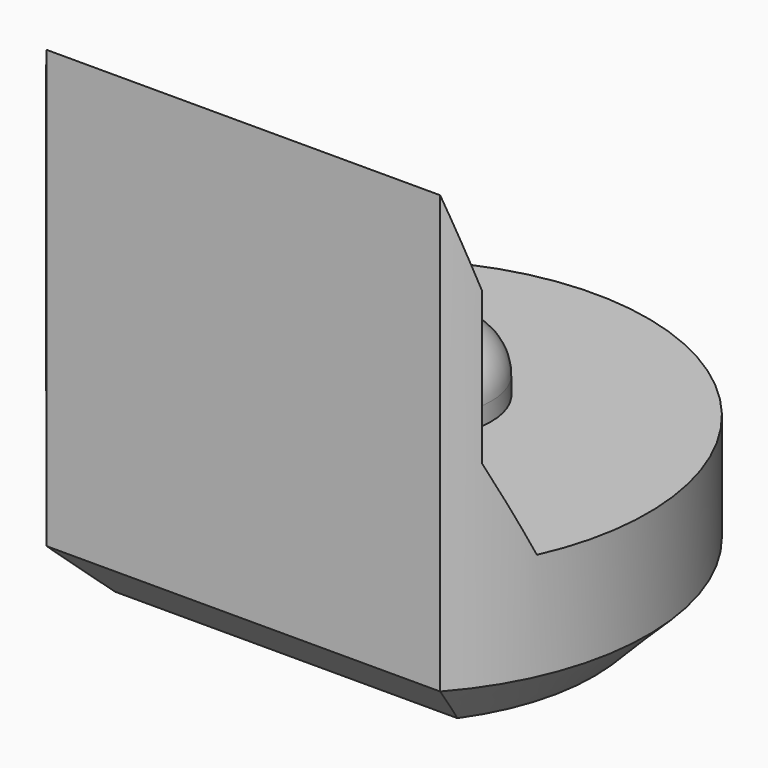
from build123d import *

# Parameters (mm, degrees)
PAD003_DEPTH         = 5.5
POCKET004_DEPTH      = 2.951
POCKET004_DEPTH_BACK = 2.951
SKETCH013_R          = 0.8
PAD006_DEPTH         = 0.7
FILLET_R             = 0.5
CHAMFER004_SIZE      = 0.6


with BuildPart() as part:
    # Sketch004 → Pad003 (new body)
    with BuildSketch(Plane.XY):
        with BuildLine():
            ThreePointArc((2.2, -1.9653244007), (0, 2.95), (-2.2, -1.9653244007))
            Line((-2.2, -1.9653244007), (2.2, -1.9653244007))
        make_face()
    extrude(amount=PAD003_DEPTH)

    # Sketch014 → Pocket004 (cut, two sides)
    with BuildSketch(Plane.YZ) as pocket004_sk:
        Polygon((-1.97, 5.5), (-1.67, 4.5), (-1.67, 2.8), (-1.22, 1.8), (4, 1.8), (4, 5.5), align=None)
    extrude(amount=-POCKET004_DEPTH, mode=Mode.SUBTRACT)
    extrude(pocket004_sk.sketch, amount=POCKET004_DEPTH_BACK, mode=Mode.SUBTRACT)

    # Sketch013 (on Face7 of Pocket004) → Pad006 (join)
    with BuildSketch(Plane.XY.offset(1.8)):
        with Locations((0, 0.5)):
            Circle(SKETCH013_R)
    extrude(amount=PAD006_DEPTH)

    # Fillet
    fillet_edges = [part.edges().sort_by_distance(p)[0] for p in [
        (-0.8, 0.5, 2.5),
    ]]
    fillet(fillet_edges, radius=FILLET_R)

    # Chamfer004
    chamfer004_edges = [part.edges().sort_by_distance(p)[0] for p in [
        (0, 2.95, 0),
        (0, -1.965324, 0),
    ]]
    chamfer(chamfer004_edges, length=CHAMFER004_SIZE)


with BuildPart() as part_1:
    # Body033 placement: moved
    add(part.part.moved(Location((0, 84, 0))))


solid = part_1.part
